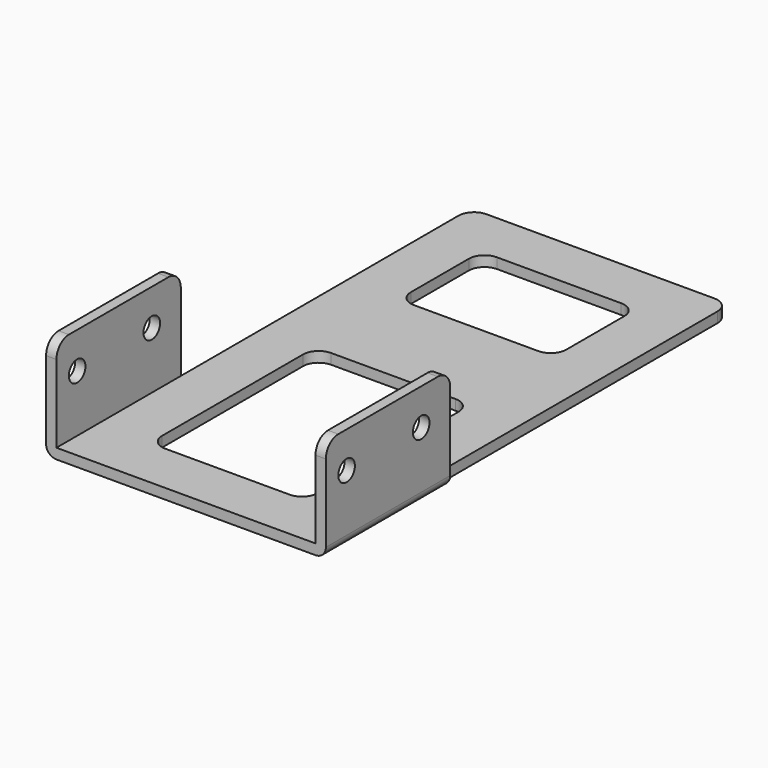
from build123d import *

# Parameters (mm, degrees)
CYLINDER001_R     = 2
CYLINDER001_DEPTH = 10
CYLINDER_R        = 2
CYLINDER_DEPTH    = 10
BOX003_W          = 2
BOX003_H          = 30
BOX003_DEPTH      = 20
FILLET004_R       = 3
CYLINDER003_R     = 2
CYLINDER003_DEPTH = 10
CYLINDER002_R     = 2
CYLINDER002_DEPTH = 10
BOX004_W          = 2
BOX004_H          = 30
BOX004_DEPTH      = 20
FILLET005_R       = 3
BOX002_W          = 30
BOX002_H          = 40
BOX002_DEPTH      = 10
FILLET001_R       = 3
BOX001_W          = 30
BOX001_H          = 20
BOX001_DEPTH      = 10
FILLET_R          = 3
BOX_W             = 50
BOX_H             = 100
BOX_DEPTH         = 2
FILLET002_R       = 3
FILLET003_R       = 3
FILLET006_R       = 2
FILLET007_R       = 2


with BuildPart() as cilindre001:
    # Cylinder001 → Cylinder001 (new body)
    with BuildSketch(Plane(origin=(-10, 23, 13), x_dir=(0, 0, 1), z_dir=(-1, 0, 0))):
        Circle(CYLINDER001_R)
    extrude(amount=CYLINDER001_DEPTH)


with BuildPart() as cilindre:
    # Cylinder → Cylinder (new body)
    with BuildSketch(Plane(origin=(-10, 5, 13), x_dir=(0, 0, 1), z_dir=(-1, 0, 0))):
        Circle(CYLINDER_R)
    extrude(amount=CYLINDER_DEPTH)


with BuildPart() as cut003:
    # Box003 → Box003 (new body)
    with BuildSketch(Plane(origin=(-14, 0, 0), x_dir=(1, 0, 0), z_dir=(0, 0, 1))):
        with Locations((1, 15)):
            Rectangle(BOX003_W, BOX003_H)
    extrude(amount=BOX003_DEPTH)

    # Fillet004
    fillet004_edges = [cut003.edges().sort_by_distance(p)[0] for p in [
        (-13, 0, 20),
        (-13, 30, 20),
    ]]
    fillet(fillet004_edges, radius=FILLET004_R)

    # Cut002: cut Cilindre
    add(cilindre.part, mode=Mode.SUBTRACT)

    # Cut003: cut Cilindre001
    add(cilindre001.part, mode=Mode.SUBTRACT)


with BuildPart() as cut003_1:
    # Cut003 placement: moved
    add(cut003.part.moved(Location((12, 0, 0))))


with BuildPart() as cilindre003:
    # Cylinder003 → Cylinder003 (new body)
    with BuildSketch(Plane(origin=(-10, 23, 13), x_dir=(0, 0, 1), z_dir=(-1, 0, 0))):
        Circle(CYLINDER003_R)
    extrude(amount=CYLINDER003_DEPTH)


with BuildPart() as cilindre002:
    # Cylinder002 → Cylinder002 (new body)
    with BuildSketch(Plane(origin=(-10, 5, 13), x_dir=(0, 0, 1), z_dir=(-1, 0, 0))):
        Circle(CYLINDER002_R)
    extrude(amount=CYLINDER002_DEPTH)


with BuildPart() as cut005:
    # Box004 → Box004 (new body)
    with BuildSketch(Plane(origin=(-14, 0, 0), x_dir=(1, 0, 0), z_dir=(0, 0, 1))):
        with Locations((1, 15)):
            Rectangle(BOX004_W, BOX004_H)
    extrude(amount=BOX004_DEPTH)

    # Fillet005
    fillet005_edges = [cut005.edges().sort_by_distance(p)[0] for p in [
        (-13, 0, 20),
        (-13, 30, 20),
    ]]
    fillet(fillet005_edges, radius=FILLET005_R)

    # Cut004: cut Cilindre002
    add(cilindre002.part, mode=Mode.SUBTRACT)

    # Cut005: cut Cilindre003
    add(cilindre003.part, mode=Mode.SUBTRACT)


with BuildPart() as cut005_1:
    # Cut005 placement: moved
    add(cut005.part.moved(Location((64, 0, 0))))


with BuildPart() as fillet001:
    # Box002 → Box002 (new body)
    with BuildSketch(Plane(origin=(10, 10, -2), x_dir=(1, 0, 0), z_dir=(0, 0, 1))):
        with Locations((15, 20)):
            Rectangle(BOX002_W, BOX002_H)
    extrude(amount=BOX002_DEPTH)

    # Fillet001
    fillet001_edges = [fillet001.edges().sort_by_distance(p)[0] for p in [
        (10, 10, 3),
        (10, 50, 3),
        (40, 10, 3),
        (40, 50, 3),
    ]]
    fillet(fillet001_edges, radius=FILLET001_R)


with BuildPart() as fillet_body:
    # Box001 → Box001 (new body)
    with BuildSketch(Plane(origin=(10, 70, 0), x_dir=(1, 0, 0), z_dir=(0, 0, 1))):
        with Locations((15, 10)):
            Rectangle(BOX001_W, BOX001_H)
    extrude(amount=BOX001_DEPTH)

    # Fillet
    fillet_edges = [fillet_body.edges().sort_by_distance(p)[0] for p in [
        (10, 70, 5),
        (10, 90, 5),
        (40, 70, 5),
        (40, 90, 5),
    ]]
    fillet(fillet_edges, radius=FILLET_R)


with BuildPart() as fillet_body_1:
    # Fillet placement: moved
    add(fillet_body.part.moved(Location((0, 0, -5))))


with BuildPart() as fillet007:
    # Box → Box (new body)
    with BuildSketch(Plane.XY):
        with Locations((25, 50)):
            Rectangle(BOX_W, BOX_H)
    extrude(amount=BOX_DEPTH)

    # Cut: cut Fillet body
    add(fillet_body_1.part, mode=Mode.SUBTRACT)

    # Cut001: cut Fillet001
    add(fillet001.part, mode=Mode.SUBTRACT)

    # Fillet002
    fillet002_edges = [fillet007.edges().sort_by_distance(p)[0] for p in [
        (50, 100, 1),
    ]]
    fillet(fillet002_edges, radius=FILLET002_R)

    # Fillet003
    fillet003_edges = [fillet007.edges().sort_by_distance(p)[0] for p in [
        (0, 100, 1),
    ]]
    fillet(fillet003_edges, radius=FILLET003_R)

    # Fusion: union Cut003, Cut005
    add(cut003_1.part)
    add(cut005_1.part)

    # Fillet006
    fillet006_edges = [fillet007.edges().sort_by_distance(p)[0] for p in [
        (-2, 15, 0),
    ]]
    fillet(fillet006_edges, radius=FILLET006_R)

    # Fillet007
    fillet007_edges = [fillet007.edges().sort_by_distance(p)[0] for p in [
        (52, 15, 0),
    ]]
    fillet(fillet007_edges, radius=FILLET007_R)


solid = fillet007.part
